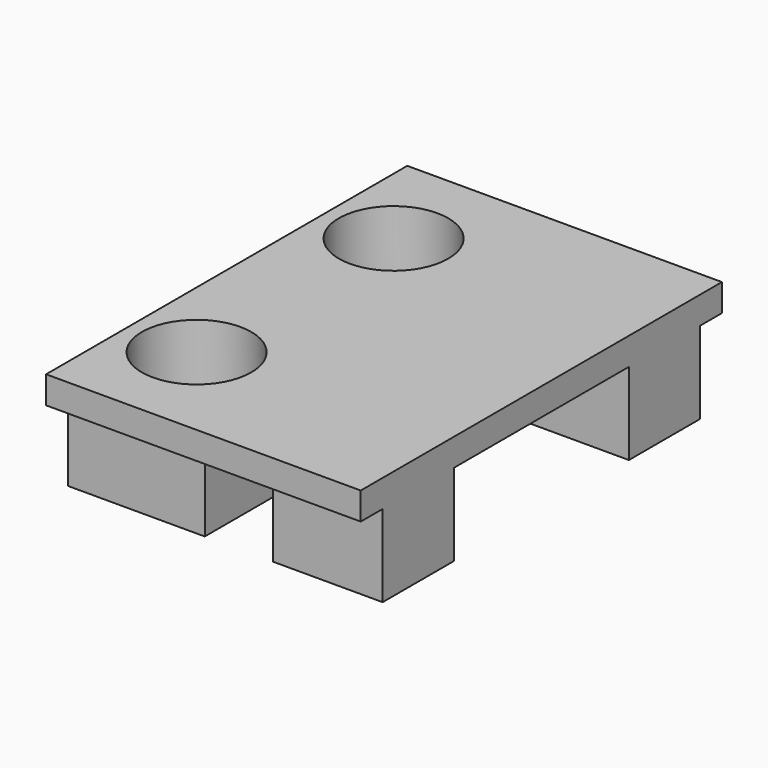
from build123d import *

# Parameters (mm, degrees)
CYLINDER002_R     = 2
CYLINDER002_DEPTH = 20
ARRAY003_Y_COUNT  = 2
ARRAY003_Y_PITCH  = 9
BOX008_W          = 5
BOX008_H          = 8
BOX008_DEPTH      = 3
BOX006_W          = 5
BOX006_H          = 14.5
BOX006_DEPTH      = 3
BOX007_W          = 4
BOX007_H          = 14.5
BOX007_DEPTH      = 3
BOX005_W          = 11.5
BOX005_H          = 16.5
BOX005_DEPTH      = 1


with BuildPart() as hole_array_copy:
    # Cylinder002 → Cylinder002 (new body)
    with BuildSketch(Plane(origin=(7, 3.75, 0), x_dir=(1, 0, 0), z_dir=(0, 0, 1))):
        Circle(CYLINDER002_R)
    extrude(amount=CYLINDER002_DEPTH)

    # Array003 Y: hole array copy ×2


with BuildPart() as hole_array_copy_1:
    add(hole_array_copy.part)
    with Locations(*[(0, i * ARRAY003_Y_PITCH, 0) for i in range(1, ARRAY003_Y_COUNT)]):
        add(hole_array_copy.part)


with BuildPart() as protector_extraction_fusion:
    # Box008 → Box008 (new body)
    with BuildSketch(Plane(origin=(12, 4.25, 0), x_dir=(1, 0, 0), z_dir=(0, 0, 1))):
        with Locations((2.5, 4)):
            Rectangle(BOX008_W, BOX008_H)
    extrude(amount=BOX008_DEPTH)

    # Fusion002: union hole array copy
    add(hole_array_copy_1.part)


with BuildPart() as hole_stand_cube001:
    # Box006 → Box006 (new body)
    with BuildSketch(Plane(origin=(4.5, 1, 0), x_dir=(1, 0, 0), z_dir=(0, 0, 1))):
        with Locations((2.5, 7.25)):
            Rectangle(BOX006_W, BOX006_H)
    extrude(amount=BOX006_DEPTH)


with BuildPart() as usb_side_protection_cube:
    # Box007 → Box007 (new body)
    with BuildSketch(Plane(origin=(12, 1, 0), x_dir=(1, 0, 0), z_dir=(0, 0, 1))):
        with Locations((2, 7.25)):
            Rectangle(BOX007_W, BOX007_H)
    extrude(amount=BOX007_DEPTH)


with BuildPart() as protector_cut:
    # Box005 → Box005 (new body)
    with BuildSketch(Plane(origin=(4.5, 0, 3), x_dir=(1, 0, 0), z_dir=(0, 0, 1))):
        with Locations((5.75, 8.25)):
            Rectangle(BOX005_W, BOX005_H)
    extrude(amount=BOX005_DEPTH)

    # Fusion001: union hole stand cube001, usb side protection cube
    add(hole_stand_cube001.part)
    add(usb_side_protection_cube.part)

    # Cut003: cut protector extraction fusion
    add(protector_extraction_fusion.part, mode=Mode.SUBTRACT)


solid = protector_cut.part
